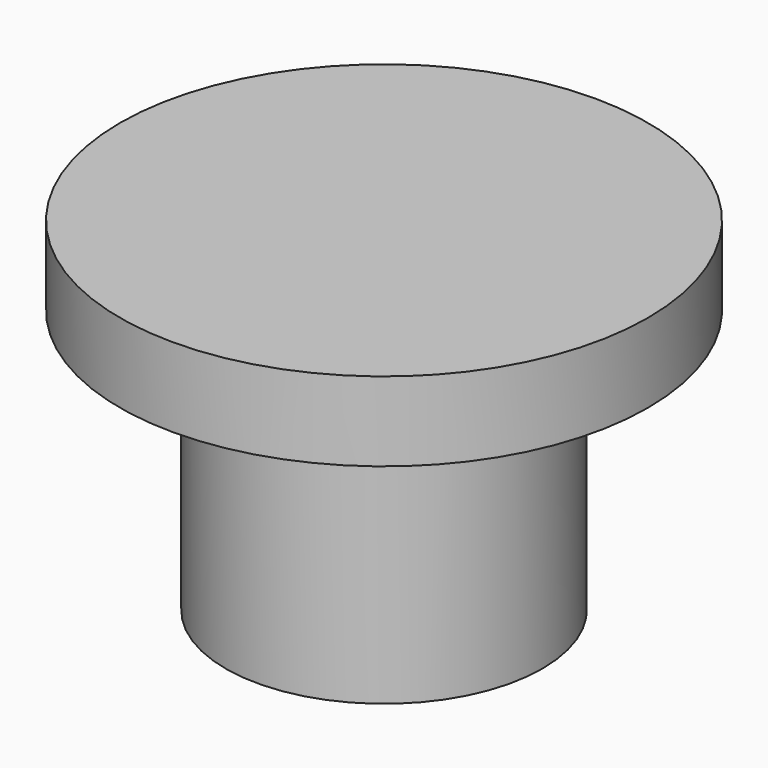
from build123d import *

# Parameters (mm, degrees)
CYLINDER001_R     = 5
CYLINDER001_DEPTH = 1.5
CYLINDER002_R     = 2.2
CYLINDER002_DEPTH = 5
CYLINDER_R        = 3
CYLINDER_DEPTH    = 5


with BuildPart() as cylinder001:
    # Cylinder001 → Cylinder001 (new body)
    with BuildSketch(Plane.XY.offset(5)):
        Circle(CYLINDER001_R)
    extrude(amount=CYLINDER001_DEPTH)


with BuildPart() as cylinder002:
    # Cylinder002 → Cylinder002 (new body)
    with BuildSketch(Plane.XY):
        Circle(CYLINDER002_R)
    extrude(amount=CYLINDER002_DEPTH)


with BuildPart() as fusion001:
    # Cylinder → Cylinder (new body)
    with BuildSketch(Plane.XY):
        Circle(CYLINDER_R)
    extrude(amount=CYLINDER_DEPTH)

    # Cut: cut Cylinder002
    add(cylinder002.part, mode=Mode.SUBTRACT)

    # Fusion: union Cylinder001
    add(cylinder001.part)


solid = fusion001.part
